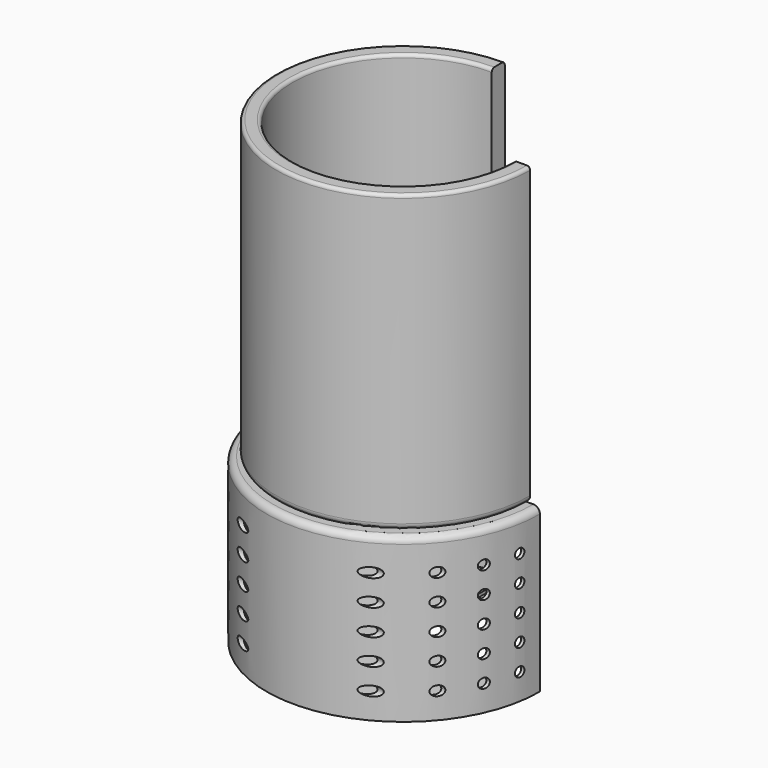
from build123d import *

# Parameters (mm, degrees)
F1_ANGLE      = 270
F3_ANGLE      = 270
F4_R          = 2
F5_R          = 1.5
F6_DEPTH      = 42.001
F6_DEPTH_BACK = 42.001


with BuildPart() as f1:
    # F0 (on Front) → F1 (revolve)
    with BuildSketch(Plane.XZ):
        with BuildLine():
            ThreePointArc((39, 88), (38.707107, 88.707107), (38, 89))
            Line((38, 89), (35, 89))
            ThreePointArc((35, 89), (34.292893, 88.707107), (34, 88))
            Line((34, 88), (34, 1))
            ThreePointArc((34, 1), (33.707107, 0.292893), (33, 0))
            Line((33, 0), (0, 0))
            Line((0, 0), (0, -2))
            Line((0, -2), (37, -2))
            ThreePointArc((37, -2), (38.414214, -1.414214), (39, 0))
            Line((39, 0), (39, 88))
        make_face()
    revolve(axis=Axis((0, 0, -39.313186), (0, 0, -1)), revolution_arc=F1_ANGLE)

    # F2 (on Front) → F3 (revolve)
    with BuildSketch(Plane.XZ):
        Polygon((42, -52), (42, -2), (0, -2), (0, -3), (41, -3), (41, -51), (0, -51), (0, -52), align=None)
    revolve(axis=Axis((0, 0, -4.204724), (0, 0, -1)), revolution_arc=F3_ANGLE)

    # F4
    f4_edges = [f1.edges().sort_by_distance(p)[0] for p in [
        (-29.698485, -29.698485, -2),
    ]]
    fillet(f4_edges, radius=F4_R)

    # F5 (on Right) → F6 (cut, two sides)
    with BuildSketch(Plane.YZ) as f6_sk:
        with Locations((-37, -12)):
            Circle(F5_R)
        with Locations((-27, -12)):
            Circle(F5_R)
        with Locations((-17, -12)):
            Circle(F5_R)
        with Locations((-7, -12)):
            Circle(F5_R)
        with Locations((-37, -20)):
            Circle(F5_R)
        with Locations((-17, -20)):
            Circle(F5_R)
        with Locations((-7, -20)):
            Circle(F5_R)
        with Locations((-7, -28)):
            Circle(F5_R)
        with Locations((-27, -20)):
            Circle(F5_R)
        with Locations((-37, -28)):
            Circle(F5_R)
        with Locations((-37, -44)):
            Circle(F5_R)
        with Locations((-27, -28)):
            Circle(F5_R)
        with Locations((-37, -36)):
            Circle(F5_R)
        with Locations((-27, -44)):
            Circle(F5_R)
        with Locations((-17, -28)):
            Circle(F5_R)
        with Locations((-17, -44)):
            Circle(F5_R)
        with Locations((-17, -36)):
            Circle(F5_R)
        with Locations((-7, -36)):
            Circle(F5_R)
        with Locations((-27, -36)):
            Circle(F5_R)
        with Locations((-7, -44)):
            Circle(F5_R)
        with Locations((17, -28)):
            Circle(F5_R)
        with Locations((7, -28)):
            Circle(F5_R)
        with Locations((17, -12)):
            Circle(F5_R)
        with Locations((37, -12)):
            Circle(F5_R)
        with Locations((7, -12)):
            Circle(F5_R)
        with Locations((27, -44)):
            Circle(F5_R)
        with Locations((37, -20)):
            Circle(F5_R)
        with Locations((17, -20)):
            Circle(F5_R)
        with Locations((27, -36)):
            Circle(F5_R)
        with Locations((27, -12)):
            Circle(F5_R)
        with Locations((27, -20)):
            Circle(F5_R)
        with Locations((37, -36)):
            Circle(F5_R)
        with Locations((17, -36)):
            Circle(F5_R)
        with Locations((7, -36)):
            Circle(F5_R)
        with Locations((27, -28)):
            Circle(F5_R)
        with Locations((37, -28)):
            Circle(F5_R)
        with Locations((37, -44)):
            Circle(F5_R)
        with Locations((17, -44)):
            Circle(F5_R)
        with Locations((7, -20)):
            Circle(F5_R)
        with Locations((7, -44)):
            Circle(F5_R)
    extrude(amount=F6_DEPTH, mode=Mode.SUBTRACT)
    extrude(f6_sk.sketch, amount=-F6_DEPTH_BACK, mode=Mode.SUBTRACT)


solid = f1.part
